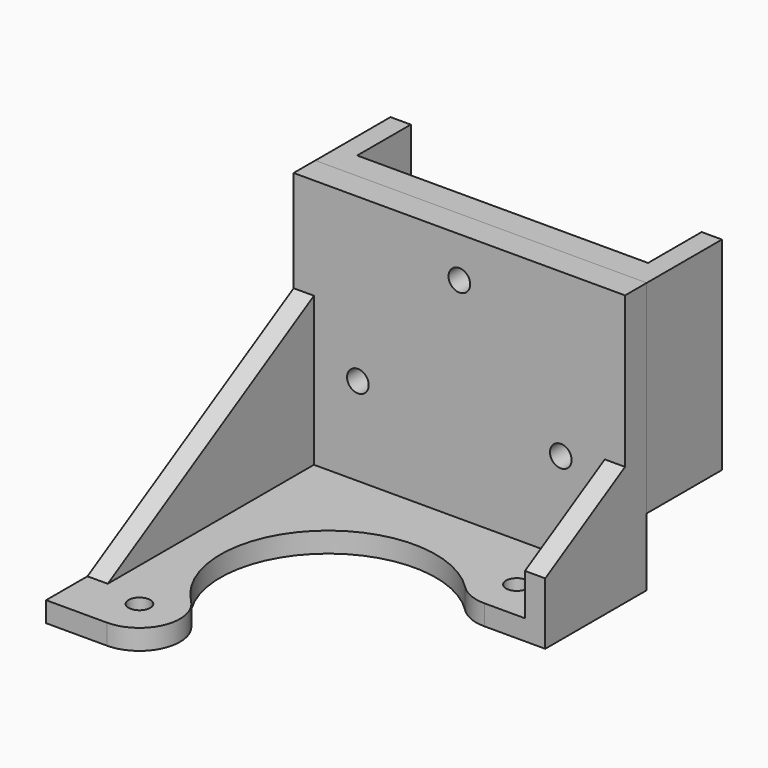
from build123d import *

# Parameters (mm, degrees)
F0_W      = 20
F0_H      = 25
F1_DEPTH  = 3
F3_DEPTH  = 9
F5_DEPTH  = 30
F6_W      = 49
F6_H      = 13.9
F7_DEPTH  = 3
F8_R      = 4.05
F9_DEPTH  = 9
F10_R     = 2.55
F11_DEPTH = 25
F12_W     = 49
F12_H     = 40.0050412431
F13_DEPTH = 4
F14_R     = 1.6
F15_DEPTH = 33.001
F16_R     = 1.6
F17_DEPTH = 3
F18_W     = 3
F18_H     = 14.75
F18_H_2   = 45.75
F19_DEPTH = 25
F21_DEPTH = 3
F23_DEPTH = 25


with BuildPart() as f1:
    # F0 (on Top) → F1 (new body)
    with BuildSketch(Plane.XY):
        Rectangle(F0_W, F0_H)
    extrude(amount=F1_DEPTH)

    # F2 (on Top) → F3 (join)
    with BuildSketch(Plane.XY):
        Polygon((10, -2.6), (-10, -2.6), (-10, -6.8), (-10, -12.5), (10, -12.5), (10, -7.5), align=None)
    extrude(amount=F3_DEPTH)

    # F4 (on face) → F5 (join)
    with BuildSketch(Plane.XY):
        Polygon((-21.5, -2.6), (-24.5, -2.6), (-24.5, -16.5), (24.5, -16.5), (24.5, -2.6), (21.5, -2.6), (21.5, -12.5), (-21.5, -12.5), align=None)
    extrude(amount=F5_DEPTH)

    # F6 (on face) → F7 (join)
    with BuildSketch(Plane(origin=(0, 0, 0), x_dir=(1, 0, 0), z_dir=(0, 0, -1))):
        with Locations((0, 9.55)):
            Rectangle(F6_W, F6_H)
    extrude(amount=-F7_DEPTH)

    # F8 (on Top) → F9 (cut, through all)
    with BuildSketch(Plane.XY):
        with Locations((0, -7.55)):
            Circle(F8_R)
    extrude(amount=F9_DEPTH, mode=Mode.SUBTRACT)

    # F10 (on face) → F11 (cut)
    with BuildSketch(Plane.XZ.offset(16.5)):
        with Locations((15, 6)):
            Circle(F10_R)
        with Locations((-15, 6)):
            Circle(F10_R)
        with Locations((0, 24)):
            Circle(F10_R)
    extrude(amount=-F11_DEPTH, mode=Mode.SUBTRACT)


with BuildPart() as f13:
    # F12 (on face) → F13 (new body)
    with BuildSketch(Plane.XZ.offset(16.5)):
        with Locations((0, 10.0025206215)):
            Rectangle(F12_W, F12_H)
    extrude(amount=F13_DEPTH)

    # F14 (on face) → F15 (cut, through all)
    with BuildSketch(Plane.XZ.offset(20.5)):
        with Locations((-15, 6)):
            Circle(F14_R)
        with Locations((0, 24)):
            Circle(F14_R)
        with Locations((15, 6)):
            Circle(F14_R)
    extrude(amount=-F15_DEPTH, mode=Mode.SUBTRACT)

    # F16 (on face) → F17 (join)
    with BuildSketch(Plane(origin=(0, 0, -10), x_dir=(1, 0, 0), z_dir=(0, 0, -1))):
        with BuildLine():
            ThreePointArc((11.2573593129, 33.4926406871), (-11.2573593129, 33.4926406871), (-11.2573593129, 56.0073593129))
            ThreePointArc((-11.2573593129, 56.0073593129), (-9.9567228049, 62.5461005942), (-15.5, 66.25))
            Line((-15.5, 66.25), (-24.5, 66.25))
            Line((-24.5, 66.25), (-24.5, 20.5))
            Line((-24.5, 20.5), (24.5, 20.5))
            Line((24.5, 20.5), (24.5, 35.25))
            Line((24.5, 35.25), (15.5, 35.25))
            ThreePointArc((15.5, 35.25), (13.2038994058, 34.7932771951), (11.2573593129, 33.4926406871))
        make_face()
        with Locations((15.5, 29.25)):
            Circle(F16_R, mode=Mode.SUBTRACT)
        with Locations((-15.5, 60.25)):
            Circle(F16_R, mode=Mode.SUBTRACT)
    extrude(amount=-F17_DEPTH)

    # F18 (on face) → F19 (join)
    with BuildSketch(Plane(origin=(0, 0, -10), x_dir=(1, 0, 0), z_dir=(0, 0, -1))):
        with Locations((23, 27.875)):
            Rectangle(F18_W, F18_H)
        with Locations((-23, 43.375)):
            Rectangle(F18_W, F18_H_2)
    extrude(amount=-F19_DEPTH)

    # F20 (on face) → F21 (cut, through all)
    with BuildSketch(Plane.YZ.offset(24.5)):
        Polygon((-20.5, 15), (-35.25, 15), (-35.25, -0.8318844145), (-20.5, 7.6840320561), align=None)
    extrude(amount=-F21_DEPTH, mode=Mode.SUBTRACT)

    # F22 (on face) → F23 (cut)
    with BuildSketch(Plane(origin=(-24.5, 0, 0), x_dir=(0, -1, 0), z_dir=(-1, 0, 0))):
        Polygon((66.25, 15), (20.5, 15), (58.6051177665, -7), (66.25, -7), align=None)
    extrude(amount=-F23_DEPTH, mode=Mode.SUBTRACT)


solid = Compound([f1.part, f13.part])
